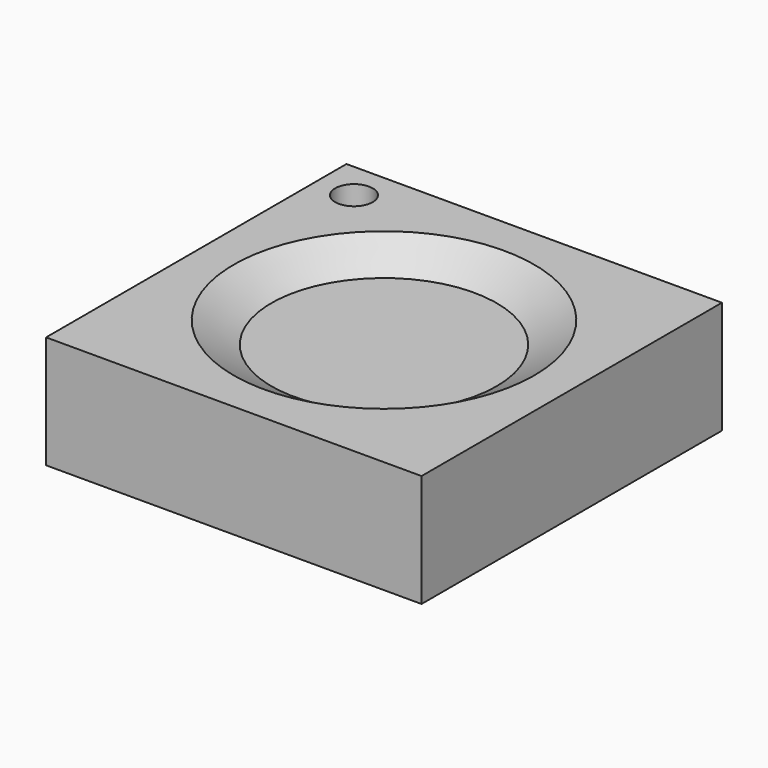
from build123d import *

# Parameters (mm, degrees)
F2_DEPTH = 63.5
F5_DEPTH = 50.8


with BuildPart() as f2:
    # F1 (on Front) → F2 (new body, symmetric)
    with BuildSketch(Plane.XZ):
        Polygon((-63.5, -32.291652), (63.5, -32.291652), (63.5, 5.808348), (0, 5.808348), (-63.5, 5.808348), align=None)
    extrude(amount=F2_DEPTH, both=True)

    # F0 (on Front) → F3 (revolve, cut)
    with BuildSketch(Plane.XZ):
        Polygon((38.1, -1.524), (50.8, 5.808348), (0, 5.808348), (0, -1.524), align=None)
    revolve(axis=Axis((0, 0, 2.142174), (0, 0, -1)), mode=Mode.SUBTRACT)

    # F4 (on Top) → F5 (cut, symmetric)
    with BuildSketch(Plane.XY):
        with BuildLine():
            ThreePointArc((-44.45, 50.8), (-55.290128, 55.290128), (-50.8, 44.45))
            Line((-50.8, 44.45), (-50.8, 50.8))
            Line((-50.8, 50.8), (-44.45, 50.8))
        make_face()
        with BuildLine():
            Line((-50.8, 50.8), (-50.8, 44.45))
            ThreePointArc((-50.8, 44.45), (-46.309872, 46.309872), (-44.45, 50.8))
            Line((-44.45, 50.8), (-50.8, 50.8))
        make_face()
    extrude(amount=F5_DEPTH, both=True, mode=Mode.SUBTRACT)


solid = f2.part
